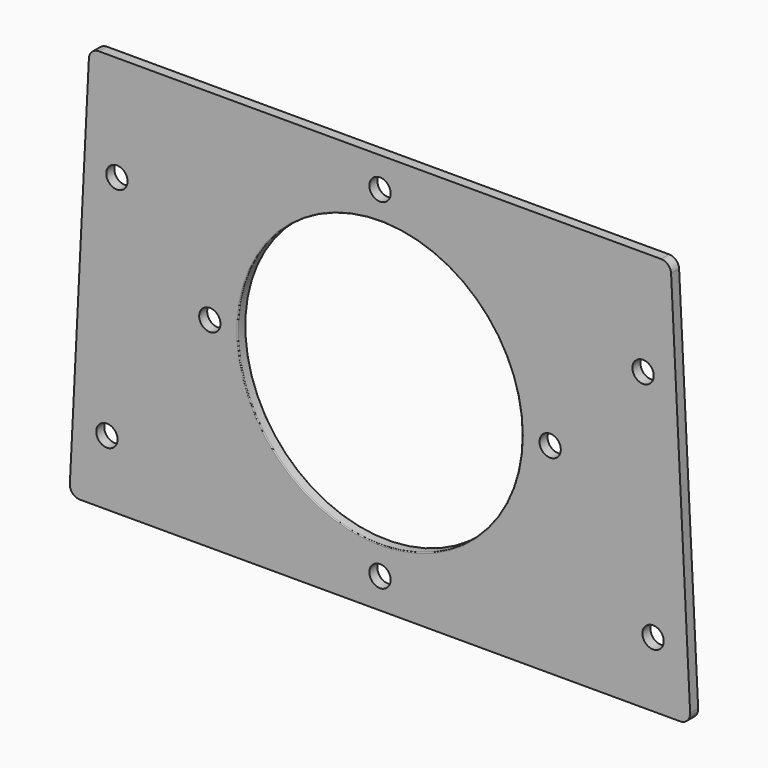
from build123d import *

# Parameters (mm, degrees)
F0_R     = 6.74624
F1_DEPTH = 6.35
F2_R     = 90.17
F3_DEPTH = 6.351
F4_R     = 6.74624
F5_DEPTH = 6.351
F6_R     = 0.508


with BuildPart() as f1:
    # F0 (on Front) → F1 (new body)
    with BuildSketch(Plane.XZ):
        with BuildLine():
            ThreePointArc((-196.5166448066, -120.3328961324), (-194.775442891, -125.0265791688), (-190.1745674547, -127))
            Line((-190.1745674547, -127), (190.1745674547, -127))
            ThreePointArc((190.1745674547, -127), (194.775442891, -125.0265791688), (196.5166448066, -120.3328961324))
            Line((196.5166448066, -120.3328961324), (184.4516448066, 120.9671038676))
            ThreePointArc((184.4516448066, 120.9671038676), (182.4861466235, 125.2508754362), (178.1095674547, 127))
            Line((178.1095674547, 127), (-178.1095674547, 127))
            ThreePointArc((-178.1095674547, 127), (-182.4861466235, 125.2508754362), (-184.4516448066, 120.9671038676))
            Line((-184.4516448066, 120.9671038676), (-196.5166448066, -120.3328961324))
        make_face()
        with Locations((-173.0375, -85.725)):
            Circle(F0_R, mode=Mode.SUBTRACT)
        with Locations((173.0375, -85.725)):
            Circle(F0_R, mode=Mode.SUBTRACT)
        with Locations((-166.6875, 60.325)):
            Circle(F0_R, mode=Mode.SUBTRACT)
        with Locations((166.6875, 60.325)):
            Circle(F0_R, mode=Mode.SUBTRACT)
    extrude(amount=-F1_DEPTH)

    # F2 (on face) → F3 (cut, through all)
    with BuildSketch(Plane.XZ):
        Circle(F2_R)
    extrude(amount=-F3_DEPTH, mode=Mode.SUBTRACT)

    # F4 (on face) → F5 (cut, through all)
    with BuildSketch(Plane.XZ):
        with Locations((0, 107.823)):
            Circle(F4_R)
        with Locations((-107.823, 0)):
            Circle(F4_R)
        with Locations((0, -107.823)):
            Circle(F4_R)
        with Locations((107.823, 0)):
            Circle(F4_R)
    extrude(amount=-F5_DEPTH, mode=Mode.SUBTRACT)

    # F6
    f6_edges = [f1.edges().sort_by_distance(p)[0] for p in [
        (-90.17, 6.35, 0),
        (-90.17, 0, 0),
    ]]
    fillet(f6_edges, radius=F6_R)


solid = f1.part
